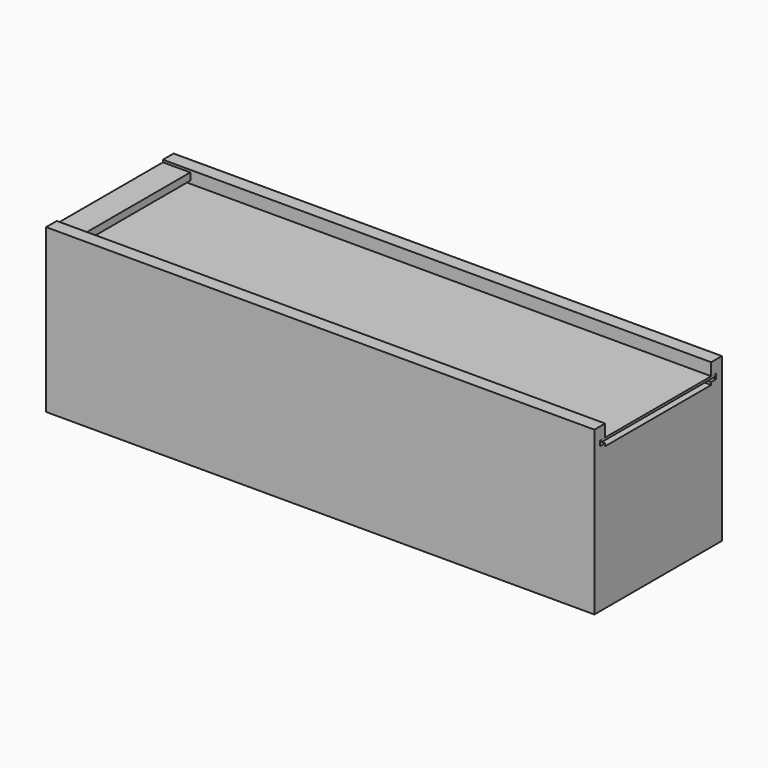
from build123d import *

# Parameters (mm, degrees)
F0_W      = 320
F0_H      = 86
F1_DEPTH  = 9
F0_W_2    = 17.75
F2_DEPTH  = 92.5
F3_DEPTH  = 105.5
F4_DEPTH  = 104
F6_W      = 344.25
F6_H      = 94
F7_DEPTH  = 3.3
F8_W      = 86
F8_H      = 6
F9_DEPTH  = 6.5
F10_W     = 342.3
F10_H     = 93
F11_DEPTH = 1.5


with BuildPart() as f1:
    # F0 (on Top) → F1 (new body)
    with BuildSketch(Plane.XY):
        Rectangle(F0_W, F0_H)
    extrude(amount=F1_DEPTH)

    # F0 (on Top) → F2 (join)
    with BuildSketch(Plane.XY):
        with Locations((168.875, 0)):
            Rectangle(F0_W_2, F0_H)
    extrude(amount=F2_DEPTH)

    # F0 (on Top) → F3 (join)
    with BuildSketch(Plane.XY):
        Polygon((177.75, 51.675), (-177.75, 51.675), (-177.75, 43), (-160, 43), (160, 43), (177.75, 43), align=None)
        Polygon((-160, -43), (-177.75, -43), (-177.75, -51.675), (177.75, -51.675), (177.75, -43), (160, -43), align=None)
    extrude(amount=F3_DEPTH)

    # F0 (on Top) → F4 (join)
    with BuildSketch(Plane.XY):
        with Locations((-168.875, 0)):
            Rectangle(F0_W_2, F0_H)
    extrude(amount=F4_DEPTH)

    # F6 (on offset) → F7 (cut)
    with BuildSketch(Plane.XY.offset(97.5)):
        with Locations((5.625, 0)):
            Rectangle(F6_W, F6_H)
    extrude(amount=-F7_DEPTH, mode=Mode.SUBTRACT)

    # F8 (on face) → F9 (cut)
    with BuildSketch(Plane.YZ.offset(-160)):
        with Locations((0, 96.3)):
            Rectangle(F8_W, F8_H)
    extrude(amount=-F9_DEPTH, mode=Mode.SUBTRACT)


with BuildPart() as f11:
    # F10 (on offset) → F11 (new body)
    with BuildSketch(Plane.XY.offset(97.5)):
        with Locations((6.6, 0)):
            Rectangle(F10_W, F10_H)
    extrude(amount=-F11_DEPTH)


solid = Compound([f1.part, f11.part])
